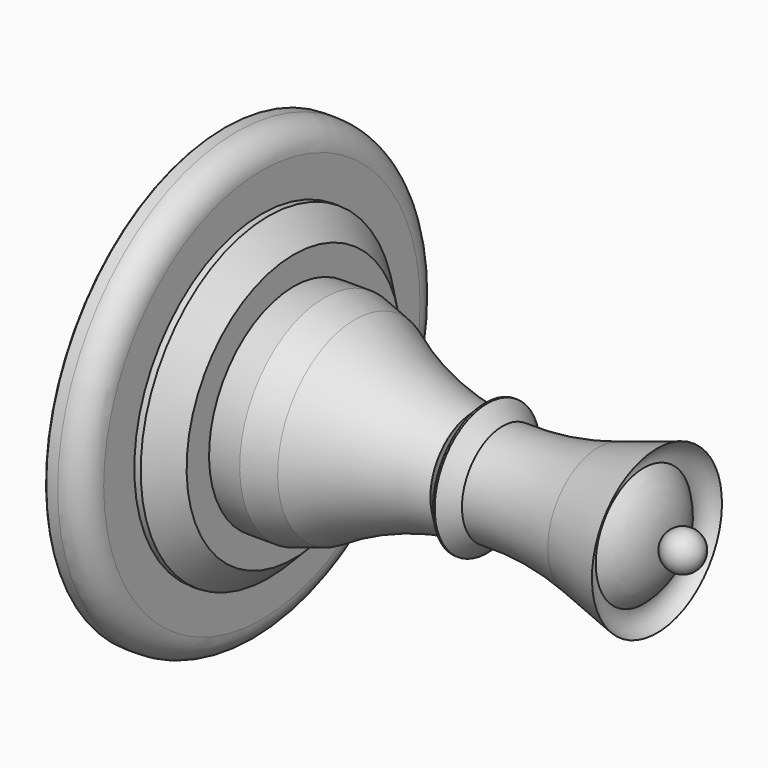
from build123d import *

# Parameters (mm, degrees)
F2_R    = 5.08
F3_SIZE = 5.08
F4_SIZE = 0.254


with BuildPart() as f1:
    # F0 (on Front) → F1 (revolve)
    with BuildSketch(Plane.XZ):
        with BuildLine():
            Line((-95.25, 0), (0, 0))
            ThreePointArc((0, 0), (-2.708279, 3.647233), (-6.98284, 2.109309))
            ThreePointArc((-6.98284, 2.109309), (-8.264886, 7.499956), (-11.609642, 11.917572))
            ThreePointArc((-11.609642, 11.917572), (-11.088297, 14.546759), (-8.96451, 16.181984))
            Line((-8.96451, 16.181984), (-20.623778, 12.617388))
            ThreePointArc((-20.623778, 12.617388), (-30.0627, 10.566624), (-39.710517, 10.099176))
            Line((-39.710517, 10.099176), (-42.90622, 13.294879))
            Line((-42.90622, 13.294879), (-45.600297, 10.600802))
            ThreePointArc((-45.600297, 10.600802), (-57.823459, 13.638481), (-69.111465, 19.22544))
            Line((-69.111465, 19.22544), (-75.184, 21.082))
            Line((-75.184, 21.082), (-81.28, 21.082))
            Line((-81.28, 21.082), (-81.28, 31.75))
            Line((-81.28, 31.75), (-87.63, 31.75))
            Line((-87.63, 31.75), (-87.63, 44.45))
            Line((-87.63, 44.45), (-95.25, 44.45))
            Line((-95.25, 44.45), (-95.25, 0))
        make_face()
    revolve(axis=Axis((-47.625, 0, 0), (-1, 0, 0)))

    # F2
    f2_edges = [f1.edges().sort_by_distance(p)[0] for p in [
        (-87.63, 0, -44.45),
    ]]
    fillet(f2_edges, radius=F2_R)

    # F3
    f3_edges = [f1.edges().sort_by_distance(p)[0] for p in [
        (-81.28, 0, -31.75),
    ]]
    chamfer(f3_edges, length=F3_SIZE)

    # F4
    f4_edges = [f1.edges().sort_by_distance(p)[0] for p in [
        (-95.25, 0, -44.45),
        (-42.90622, 0, -13.294879),
    ]]
    chamfer(f4_edges, length=F4_SIZE)


solid = f1.part
